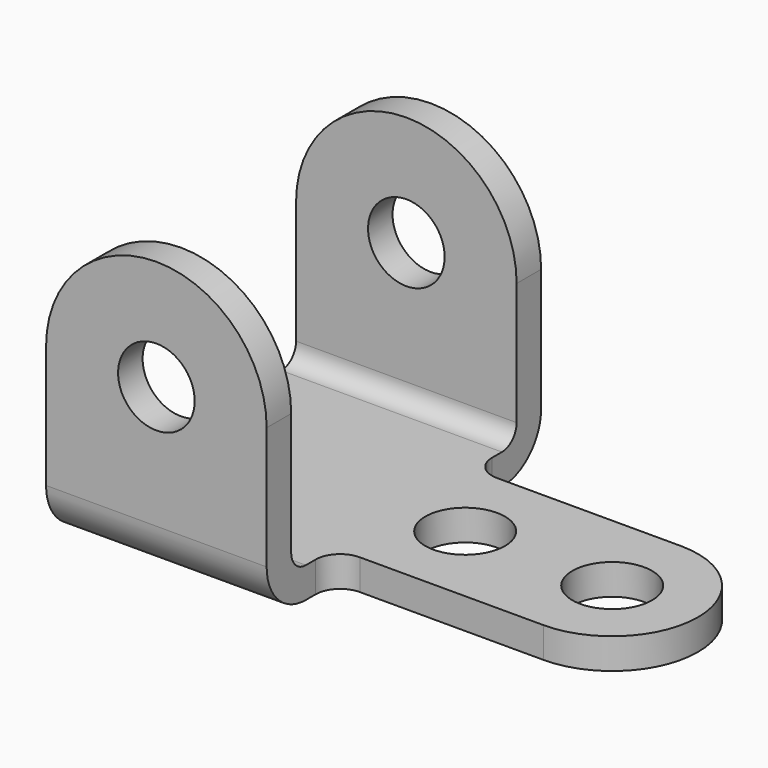
from build123d import *

# Parameters (mm, degrees)
F0_R     = 10.3251
F1_DEPTH = 76.2
F3_DEPTH = 68.2625
F4_R     = 9.92251
F5_DEPTH = 88.901
F6_R     = 12.7
F7_R     = 4.7625


with BuildPart() as f1:
    # F0 (on Top) → F1 (new body)
    with BuildSketch(Plane.XY):
        with BuildLine():
            Line((0, 88.9), (0, 0))
            Line((0, 0), (57.15, 0))
            Line((57.15, 0), (57.15, 15.875))
            ThreePointArc((57.15, 15.875), (59.009872, 20.365128), (63.5, 22.225))
            Line((63.5, 22.225), (111.125, 22.225))
            ThreePointArc((111.125, 22.225), (133.35, 44.45), (111.125, 66.675))
            Line((111.125, 66.675), (63.5, 66.675))
            ThreePointArc((63.5, 66.675), (59.009872, 68.534872), (57.15, 73.025))
            Line((57.15, 73.025), (57.15, 88.9))
            Line((57.15, 88.9), (0, 88.9))
        make_face()
        with Locations((73.025, 44.45)):
            Circle(F0_R, mode=Mode.SUBTRACT)
        with Locations((111.125, 44.45)):
            Circle(F0_R, mode=Mode.SUBTRACT)
    extrude(amount=F1_DEPTH)

    # F2 (on face) → F3 (cut)
    with BuildSketch(Plane.XY.offset(76.2)):
        with BuildLine():
            ThreePointArc((57.15, 15.875), (59.009872, 20.365128), (63.5, 22.225))
            Line((63.5, 22.225), (111.125, 22.225))
            ThreePointArc((111.125, 22.225), (133.35, 44.45), (111.125, 66.675))
            Line((111.125, 66.675), (63.5, 66.675))
            ThreePointArc((63.5, 66.675), (59.009872, 68.534872), (57.15, 73.025))
            Line((57.15, 73.025), (57.15, 80.9625))
            Line((57.15, 80.9625), (0, 80.9625))
            Line((0, 80.9625), (0, 7.9502))
            Line((0, 7.9502), (57.15, 7.9502))
            Line((57.15, 7.9502), (57.15, 15.875))
        make_face()
    extrude(amount=-F3_DEPTH, mode=Mode.SUBTRACT)

    # F4 (on face) → F5 (cut, through all)
    with BuildSketch(Plane.XZ):
        with Locations((28.575, 44.45)):
            Circle(F4_R)
        with BuildLine():
            Line((0, 76.2), (0, 44.45))
            ThreePointArc((0, 44.45), (28.575, 73.025), (57.15, 44.45))
            Line((57.15, 44.45), (57.15, 76.2))
            Line((57.15, 76.2), (0, 76.2))
        make_face()
    extrude(amount=-F5_DEPTH, mode=Mode.SUBTRACT)

    # F6
    f6_edges = [f1.edges().sort_by_distance(p)[0] for p in [
        (28.575, 0, 0),
        (28.575, 88.9, 0),
    ]]
    fillet(f6_edges, radius=F6_R)

    # F7
    f7_edges = [f1.edges().sort_by_distance(p)[0] for p in [
        (28.575, 7.9502, 7.9375),
        (28.575, 80.9625, 7.9375),
    ]]
    fillet(f7_edges, radius=F7_R)


solid = f1.part
